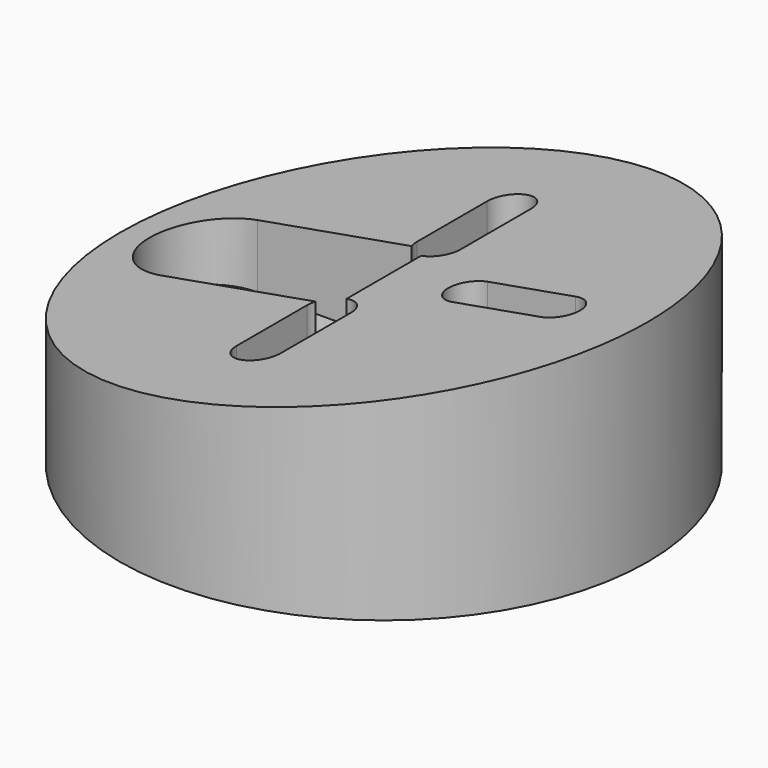
from build123d import *

# Parameters (mm, degrees)
F0_R          = 19.05
F1_DEPTH      = 25.4
F3_DEPTH      = 19.051
F3_DEPTH_BACK = 19.051
F5_DEPTH      = 15.241
F8_DEPTH      = 10.16


with BuildPart() as f1:
    # F0 (on Top) → F1 (new body)
    with BuildSketch(Plane.XY):
        Circle(F0_R)
    extrude(amount=F1_DEPTH)

    # F2 (on Front) → F3 (cut, two sides)
    with BuildSketch(Plane.XZ) as f3_sk:
        Polygon((-19.05, 25.4), (-19.05, 8.521942), (19.05, 15.24), (19.05, 25.4), align=None)
    extrude(amount=F3_DEPTH, mode=Mode.SUBTRACT)
    extrude(f3_sk.sketch, amount=-F3_DEPTH_BACK, mode=Mode.SUBTRACT)

    # F4 (on Top) → F5 (cut, through all)
    with BuildSketch(Plane.XY):
        with BuildLine():
            Line((-1.5875, -4.953), (-1.5875, -11.303))
            ThreePointArc((-1.5875, -11.303), (0, -12.8905), (1.5875, -11.303))
            Line((1.5875, -11.303), (1.5875, -4.953))
            ThreePointArc((1.5875, -4.953), (0, -3.3655), (-1.5875, -4.953))
        make_face()
        with BuildLine():
            Line((-1.5875, 11.303), (-1.5875, 4.953))
            ThreePointArc((-1.5875, 4.953), (0, 3.3655), (1.5875, 4.953))
            Line((1.5875, 4.953), (1.5875, 11.303))
            ThreePointArc((1.5875, 11.303), (0, 12.8905), (-1.5875, 11.303))
        make_face()
        with BuildLine():
            Line((12.573, 1.5875), (6.223, 1.5875))
            ThreePointArc((6.223, 1.5875), (4.6355, 0), (6.223, -1.5875))
            Line((6.223, -1.5875), (12.573, -1.5875))
            ThreePointArc((12.573, -1.5875), (14.1605, 0), (12.573, 1.5875))
        make_face()
        with BuildLine():
            Line((-12.573, -1.5875), (-6.223, -1.5875))
            ThreePointArc((-6.223, -1.5875), (-4.6355, 0), (-6.223, 1.5875))
            Line((-6.223, 1.5875), (-12.573, 1.5875))
            ThreePointArc((-12.573, 1.5875), (-14.1605, 0), (-12.573, -1.5875))
        make_face()
    extrude(amount=F5_DEPTH, mode=Mode.SUBTRACT)

    # F7 (on offset) → F8 (cut)
    with BuildSketch(Plane.XY.offset(15.24)):
        with BuildLine():
            ThreePointArc((-12.573, 4.3307), (-16.9037, 0), (-12.573, -4.3307))
            Line((-12.573, -4.3307), (-6.223, -4.3307))
            Line((-6.223, -4.3307), (0, -4.3307))
            Line((0, -4.3307), (0, 4.3307))
            Line((0, 4.3307), (-6.223, 4.3307))
            Line((-6.223, 4.3307), (-12.573, 4.3307))
        make_face()
    extrude(amount=-F8_DEPTH, mode=Mode.SUBTRACT)


solid = f1.part
